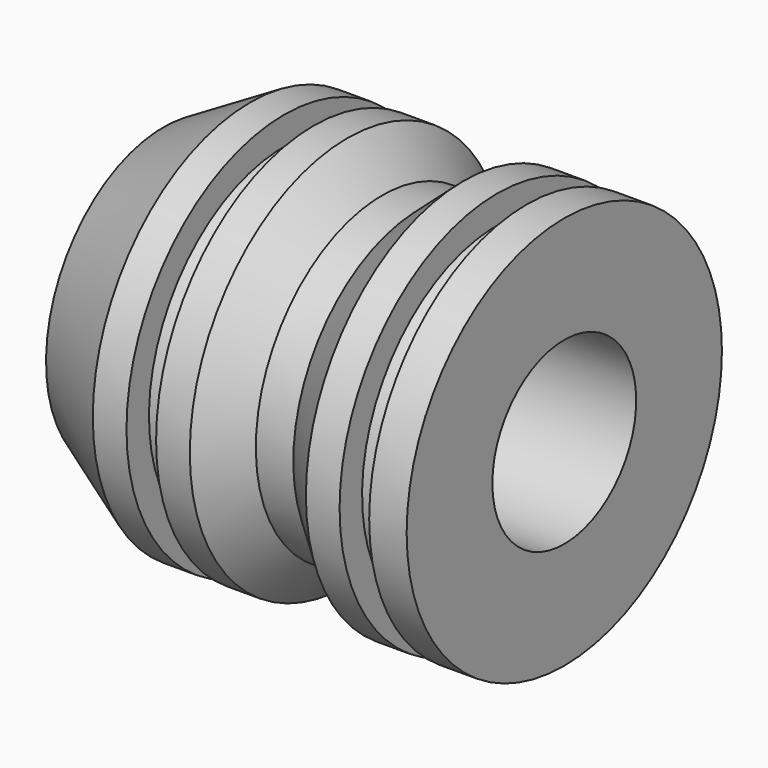
from build123d import *

# Parameters (mm, degrees)
F2_R     = 4.8
F3_DEPTH = 25


with BuildPart() as f1:
    # F0 (on Front) → F1 (revolve)
    with BuildSketch(Plane.XZ):
        Polygon((21.397485, 8.6), (0, 8.6), (0, 0.757347), (4.639599, -1.921326), (6.439599, -1.921326), (6.439599, -0.421326), (8.019599, -0.421326), (8.019599, -1.921326), (9.819599, -1.921326), (11.677296, 0.163707), (13.677296, 0.163707), (16.017485, -1.921326), (17.817485, -1.921326), (17.817485, -0.421326), (19.397485, -0.421326), (19.397485, -1.921326), (21.397485, -1.921326), align=None)
    revolve(axis=Axis((10.698743, 0, 8.6), (1, 0, 0)))

    # F2 (on face) → F3 (cut)
    with BuildSketch(Plane(origin=(0, 0, 0), x_dir=(0, -1, 0), z_dir=(-1, 0, 0))):
        with Locations((0, 8.6)):
            Circle(F2_R)
    extrude(amount=-F3_DEPTH, mode=Mode.SUBTRACT)


solid = f1.part
